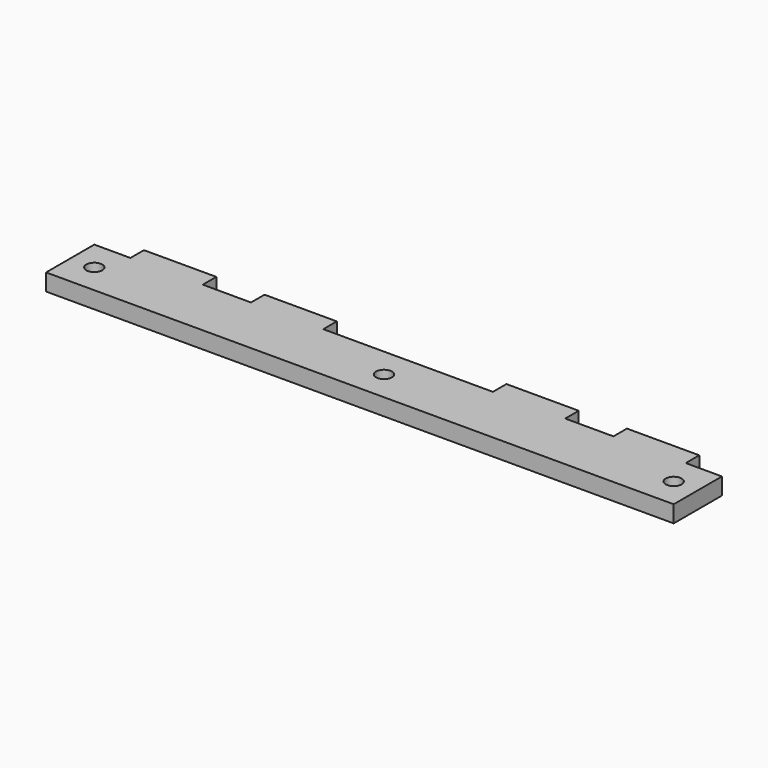
from build123d import *

# Parameters (mm, degrees)
F0_W     = 260.35
F0_H     = 25
F1_DEPTH = 7
F2_R     = 3.302
F3_DEPTH = 7
F4_W     = 30
F4_H     = 7
F5_DEPTH = 7


with BuildPart() as f1:
    # F0 (on Top) → F1 (new body)
    with BuildSketch(Plane.XY):
        Rectangle(F0_W, F0_H)
    extrude(amount=F1_DEPTH)

    # F2 (on face) → F3 (cut, through all)
    with BuildSketch(Plane.XY.offset(7)):
        with Locations((-120.175, 0)):
            Circle(F2_R)
        Circle(F2_R)
        with Locations((120.175, 0)):
            Circle(F2_R)
    extrude(amount=-F3_DEPTH, mode=Mode.SUBTRACT)

    # F4 (on face) → F5 (join)
    with BuildSketch(Plane(origin=(0, 12.5, 0), x_dir=(-1, 0, 0), z_dir=(0, 1, 0))):
        with Locations((100.175, 3.5)):
            Rectangle(F4_W, F4_H)
        with Locations((50.175, 3.5)):
            Rectangle(F4_W, F4_H)
        with Locations((-50.175, 3.5)):
            Rectangle(F4_W, F4_H)
        with Locations((-100.175, 3.5)):
            Rectangle(F4_W, F4_H)
    extrude(amount=F5_DEPTH)


solid = f1.part
